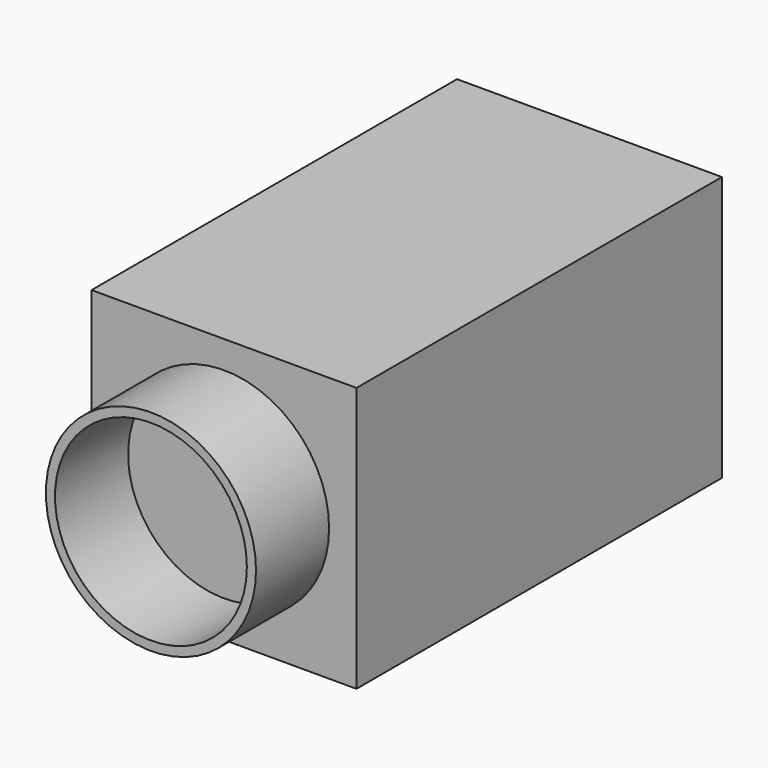
from build123d import *

# Parameters (mm, degrees)
F0_W     = 29
F0_H     = 29
F1_DEPTH = 50
F2_R     = 11.5
F2_R_2   = 10.5
F3_DEPTH = 10


with BuildPart() as f1:
    # F0 (on Front) → F1 (new body)
    with BuildSketch(Plane.XZ):
        Rectangle(F0_W, F0_H)
    extrude(amount=F1_DEPTH)

    # F2 (on face) → F3 (join)
    with BuildSketch(Plane.XZ.offset(50)):
        Circle(F2_R)
        Circle(F2_R_2, mode=Mode.SUBTRACT)
    extrude(amount=F3_DEPTH)


solid = f1.part
